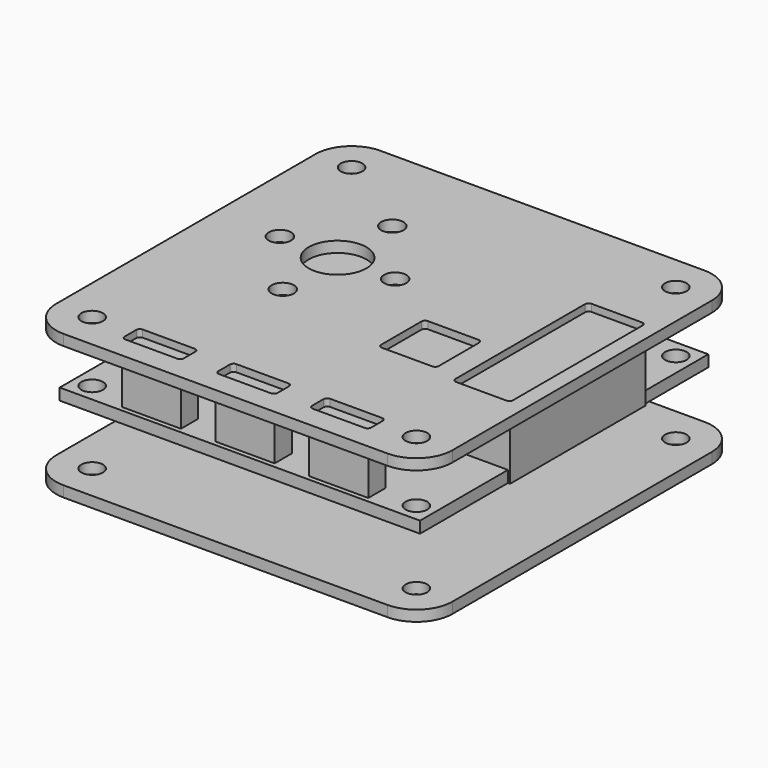
from build123d import *

# Parameters (mm, degrees)
F0_R     = 1.5
F0_W     = 8.2
F0_H     = 3
F0_W_2   = 8
F0_H_2   = 8
F0_H_3   = 10
F0_H_4   = 7
F0_W_3   = 6.5
F0_W_4   = 7.7
F0_H_5   = 23.5
F1_DEPTH = 1.6
F0_W_5   = 0.3
F2_DEPTH = 9
F4_START = 8.5
F3_R     = 1.5
F3_R_2   = 1.55
F3_R_3   = 4
F4_DEPTH = 1.5
F5_START = -8.5
F5_DEPTH = 1.5


with BuildPart() as f1:
    # F0 (on Top) → F1 (new body)
    with BuildSketch(Plane.XY):
        Polygon((-17.7, 25), (-25, 25), (-25, -25), (25, -25), (25, -9.75), (17.3, -9.75), (17.3, 13.75), (25, 13.75), (25, 25), (19.55, 25), (19.55, 18), (13.05, 18), (13.05, 25), (12.35, 25), (12.35, 18), (4.35, 18), (4.35, 25), (-9.7, 25), (-9.7, 15), (-17.7, 15), align=None)
        with Locations((-22.5, -22.5)):
            Circle(F0_R, mode=Mode.SUBTRACT)
        with Locations((-12.8, -22.85)):
            Rectangle(F0_W, F0_H, mode=Mode.SUBTRACT)
        with Locations((0.2, -22.85)):
            Rectangle(F0_W, F0_H, mode=Mode.SUBTRACT)
        with Locations((13.2, -22.85)):
            Rectangle(F0_W, F0_H, mode=Mode.SUBTRACT)
        with Locations((22.5, -22.5)):
            Circle(F0_R, mode=Mode.SUBTRACT)
        with Locations((10, -4.5)):
            Rectangle(F0_W_2, F0_H_2, mode=Mode.SUBTRACT)
        with Locations((-22.5, 22.5)):
            Circle(F0_R, mode=Mode.SUBTRACT)
        with Locations((22.5, 22.5)):
            Circle(F0_R, mode=Mode.SUBTRACT)
        with Locations((-13.7, 20)):
            Rectangle(F0_W_2, F0_H_3)
        with Locations((8.35, 21.5)):
            Rectangle(F0_W_2, F0_H_4)
        with Locations((16.3, 21.5)):
            Rectangle(F0_W_3, F0_H_4)
        with Locations((21.15, 2)):
            Rectangle(F0_W_4, F0_H_5)
        with Locations((10, -4.5)):
            Rectangle(F0_W_2, F0_H_2)
        with Locations((0.2, -22.85)):
            Rectangle(F0_W, F0_H)
        with Locations((-12.8, -22.85)):
            Rectangle(F0_W, F0_H)
        with Locations((13.2, -22.85)):
            Rectangle(F0_W, F0_H)
    extrude(amount=F1_DEPTH)

    # F0 (on Top) → F2 (join)
    with BuildSketch(Plane.XY):
        with Locations((21.15, 2)):
            Rectangle(F0_W_4, F0_H_5)
        with Locations((10, -4.5)):
            Rectangle(F0_W_2, F0_H_2)
        with Locations((13.2, -22.85)):
            Rectangle(F0_W, F0_H)
        with Locations((0.2, -22.85)):
            Rectangle(F0_W, F0_H)
        with Locations((-12.8, -22.85)):
            Rectangle(F0_W, F0_H)
        with Locations((25.15, 2)):
            Rectangle(F0_W_5, F0_H_5)
    extrude(amount=F2_DEPTH)


with BuildPart() as f4:
    # F3 (on Top) → F4 (new body)
    with BuildSketch(Plane.XY.offset(F4_START)):
        with BuildLine():
            Line((22.5, 27.5), (-22.5, 27.5))
            ThreePointArc((-22.5, 27.5), (-26.0355339059, 26.0355339059), (-27.5, 22.5))
            Line((-27.5, 22.5), (-27.5, -22.5))
            ThreePointArc((-27.5, -22.5), (-26.0355339059, -26.0355339059), (-22.5, -27.5))
            Line((-22.5, -27.5), (22.5, -27.5))
            ThreePointArc((22.5, -27.5), (26.0355339059, -26.0355339059), (27.5, -22.5))
            Line((27.5, -22.5), (27.5, 22.5))
            ThreePointArc((27.5, 22.5), (26.0355339059, 26.0355339059), (22.5, 27.5))
        make_face()
        with Locations((-22.5, -22.5)):
            Circle(F3_R, mode=Mode.SUBTRACT)
        with BuildLine():
            Line((-16.9, -23.85), (-16.9, -21.85))
            ThreePointArc((-16.9, -21.85), (-16.7535533906, -21.4964466094), (-16.4, -21.35))
            Line((-16.4, -21.35), (-9.2, -21.35))
            ThreePointArc((-9.2, -21.35), (-8.8464466094, -21.4964466094), (-8.7, -21.85))
            Line((-8.7, -21.85), (-8.7, -23.85))
            ThreePointArc((-8.7, -23.85), (-8.8464466094, -24.2035533906), (-9.2, -24.35))
            Line((-9.2, -24.35), (-16.4, -24.35))
            ThreePointArc((-16.4, -24.35), (-16.7535533906, -24.2035533906), (-16.9, -23.85))
        make_face(mode=Mode.SUBTRACT)
        with Locations((-10.4454365488, -4.5)):
            Circle(F3_R_2, mode=Mode.SUBTRACT)
        with BuildLine():
            Line((4.3, -21.85), (4.3, -23.85))
            ThreePointArc((4.3, -23.85), (4.1535533906, -24.2035533906), (3.8, -24.35))
            Line((3.8, -24.35), (-3.4, -24.35))
            ThreePointArc((-3.4, -24.35), (-3.7535533906, -24.2035533906), (-3.9, -23.85))
            Line((-3.9, -23.85), (-3.9, -21.85))
            ThreePointArc((-3.9, -21.85), (-3.7535533906, -21.4964466094), (-3.4, -21.35))
            Line((-3.4, -21.35), (3.8, -21.35))
            ThreePointArc((3.8, -21.35), (4.1535533906, -21.4964466094), (4.3, -21.85))
        make_face(mode=Mode.SUBTRACT)
        with BuildLine():
            Line((17.3, -21.85), (17.3, -23.85))
            ThreePointArc((17.3, -23.85), (17.1535533906, -24.2035533906), (16.8, -24.35))
            Line((16.8, -24.35), (9.6, -24.35))
            ThreePointArc((9.6, -24.35), (9.2464466094, -24.2035533906), (9.1, -23.85))
            Line((9.1, -23.85), (9.1, -21.85))
            ThreePointArc((9.1, -21.85), (9.2464466094, -21.4964466094), (9.6, -21.35))
            Line((9.6, -21.35), (16.8, -21.35))
            ThreePointArc((16.8, -21.35), (17.1535533906, -21.4964466094), (17.3, -21.85))
        make_face(mode=Mode.SUBTRACT)
        with Locations((22.5, -22.5)):
            Circle(F3_R, mode=Mode.SUBTRACT)
        with BuildLine():
            Line((6, -8), (6, -1))
            ThreePointArc((6, -1), (6.1464466094, -0.6464466094), (6.5, -0.5))
            Line((6.5, -0.5), (13.5, -0.5))
            ThreePointArc((13.5, -0.5), (13.8535533906, -0.6464466094), (14, -1))
            Line((14, -1), (14, -8))
            ThreePointArc((14, -8), (13.8535533906, -8.3535533906), (13.5, -8.5))
            Line((13.5, -8.5), (6.5, -8.5))
            ThreePointArc((6.5, -8.5), (6.1464466094, -8.3535533906), (6, -8))
        make_face(mode=Mode.SUBTRACT)
        with Locations((-18.4454365488, 5)):
            Circle(F3_R_2, mode=Mode.SUBTRACT)
        with Locations((-10.4454365488, 5)):
            Circle(F3_R_3, mode=Mode.SUBTRACT)
        with Locations((-2.4454365488, 5)):
            Circle(F3_R_2, mode=Mode.SUBTRACT)
        with Locations((-22.5, 22.5)):
            Circle(F3_R, mode=Mode.SUBTRACT)
        with Locations((-10.4454365488, 14.5)):
            Circle(F3_R_2, mode=Mode.SUBTRACT)
        with BuildLine():
            Line((24.8, -9.75), (17.8, -9.75))
            ThreePointArc((17.8, -9.75), (17.4464466094, -9.6035533906), (17.3, -9.25))
            Line((17.3, -9.25), (17.3, 13.25))
            ThreePointArc((17.3, 13.25), (17.4464466094, 13.6035533906), (17.8, 13.75))
            Line((17.8, 13.75), (24.8, 13.75))
            ThreePointArc((24.8, 13.75), (25.1535533906, 13.6035533906), (25.3, 13.25))
            Line((25.3, 13.25), (25.3, -9.25))
            ThreePointArc((25.3, -9.25), (25.1535533906, -9.6035533906), (24.8, -9.75))
        make_face(mode=Mode.SUBTRACT)
        with Locations((22.5, 22.5)):
            Circle(F3_R, mode=Mode.SUBTRACT)
    extrude(amount=F4_DEPTH)


with BuildPart() as f5:
    # F3 (on Top) → F5 (new body)
    with BuildSketch(Plane.XY.offset(F5_START)):
        with BuildLine():
            Line((22.5, 27.5), (-22.5, 27.5))
            ThreePointArc((-22.5, 27.5), (-26.0355339059, 26.0355339059), (-27.5, 22.5))
            Line((-27.5, 22.5), (-27.5, -22.5))
            ThreePointArc((-27.5, -22.5), (-26.0355339059, -26.0355339059), (-22.5, -27.5))
            Line((-22.5, -27.5), (22.5, -27.5))
            ThreePointArc((22.5, -27.5), (26.0355339059, -26.0355339059), (27.5, -22.5))
            Line((27.5, -22.5), (27.5, 22.5))
            ThreePointArc((27.5, 22.5), (26.0355339059, 26.0355339059), (22.5, 27.5))
        make_face()
        with Locations((-22.5, -22.5)):
            Circle(F3_R, mode=Mode.SUBTRACT)
        with BuildLine():
            Line((-16.9, -23.85), (-16.9, -21.85))
            ThreePointArc((-16.9, -21.85), (-16.7535533906, -21.4964466094), (-16.4, -21.35))
            Line((-16.4, -21.35), (-9.2, -21.35))
            ThreePointArc((-9.2, -21.35), (-8.8464466094, -21.4964466094), (-8.7, -21.85))
            Line((-8.7, -21.85), (-8.7, -23.85))
            ThreePointArc((-8.7, -23.85), (-8.8464466094, -24.2035533906), (-9.2, -24.35))
            Line((-9.2, -24.35), (-16.4, -24.35))
            ThreePointArc((-16.4, -24.35), (-16.7535533906, -24.2035533906), (-16.9, -23.85))
        make_face(mode=Mode.SUBTRACT)
        with Locations((-10.4454365488, -4.5)):
            Circle(F3_R_2, mode=Mode.SUBTRACT)
        with BuildLine():
            Line((4.3, -21.85), (4.3, -23.85))
            ThreePointArc((4.3, -23.85), (4.1535533906, -24.2035533906), (3.8, -24.35))
            Line((3.8, -24.35), (-3.4, -24.35))
            ThreePointArc((-3.4, -24.35), (-3.7535533906, -24.2035533906), (-3.9, -23.85))
            Line((-3.9, -23.85), (-3.9, -21.85))
            ThreePointArc((-3.9, -21.85), (-3.7535533906, -21.4964466094), (-3.4, -21.35))
            Line((-3.4, -21.35), (3.8, -21.35))
            ThreePointArc((3.8, -21.35), (4.1535533906, -21.4964466094), (4.3, -21.85))
        make_face(mode=Mode.SUBTRACT)
        with BuildLine():
            Line((17.3, -21.85), (17.3, -23.85))
            ThreePointArc((17.3, -23.85), (17.1535533906, -24.2035533906), (16.8, -24.35))
            Line((16.8, -24.35), (9.6, -24.35))
            ThreePointArc((9.6, -24.35), (9.2464466094, -24.2035533906), (9.1, -23.85))
            Line((9.1, -23.85), (9.1, -21.85))
            ThreePointArc((9.1, -21.85), (9.2464466094, -21.4964466094), (9.6, -21.35))
            Line((9.6, -21.35), (16.8, -21.35))
            ThreePointArc((16.8, -21.35), (17.1535533906, -21.4964466094), (17.3, -21.85))
        make_face(mode=Mode.SUBTRACT)
        with Locations((22.5, -22.5)):
            Circle(F3_R, mode=Mode.SUBTRACT)
        with BuildLine():
            Line((6, -8), (6, -1))
            ThreePointArc((6, -1), (6.1464466094, -0.6464466094), (6.5, -0.5))
            Line((6.5, -0.5), (13.5, -0.5))
            ThreePointArc((13.5, -0.5), (13.8535533906, -0.6464466094), (14, -1))
            Line((14, -1), (14, -8))
            ThreePointArc((14, -8), (13.8535533906, -8.3535533906), (13.5, -8.5))
            Line((13.5, -8.5), (6.5, -8.5))
            ThreePointArc((6.5, -8.5), (6.1464466094, -8.3535533906), (6, -8))
        make_face(mode=Mode.SUBTRACT)
        with Locations((-18.4454365488, 5)):
            Circle(F3_R_2, mode=Mode.SUBTRACT)
        with Locations((-10.4454365488, 5)):
            Circle(F3_R_3, mode=Mode.SUBTRACT)
        with Locations((-2.4454365488, 5)):
            Circle(F3_R_2, mode=Mode.SUBTRACT)
        with Locations((-22.5, 22.5)):
            Circle(F3_R, mode=Mode.SUBTRACT)
        with Locations((-10.4454365488, 14.5)):
            Circle(F3_R_2, mode=Mode.SUBTRACT)
        with BuildLine():
            Line((24.8, -9.75), (17.8, -9.75))
            ThreePointArc((17.8, -9.75), (17.4464466094, -9.6035533906), (17.3, -9.25))
            Line((17.3, -9.25), (17.3, 13.25))
            ThreePointArc((17.3, 13.25), (17.4464466094, 13.6035533906), (17.8, 13.75))
            Line((17.8, 13.75), (24.8, 13.75))
            ThreePointArc((24.8, 13.75), (25.1535533906, 13.6035533906), (25.3, 13.25))
            Line((25.3, 13.25), (25.3, -9.25))
            ThreePointArc((25.3, -9.25), (25.1535533906, -9.6035533906), (24.8, -9.75))
        make_face(mode=Mode.SUBTRACT)
        with Locations((22.5, 22.5)):
            Circle(F3_R, mode=Mode.SUBTRACT)
        with BuildLine():
            ThreePointArc((17.3, -9.25), (17.4464466094, -9.6035533906), (17.8, -9.75))
            Line((17.8, -9.75), (24.8, -9.75))
            ThreePointArc((24.8, -9.75), (25.1535533906, -9.6035533906), (25.3, -9.25))
            Line((25.3, -9.25), (25.3, 13.25))
            ThreePointArc((25.3, 13.25), (25.1535533906, 13.6035533906), (24.8, 13.75))
            Line((24.8, 13.75), (17.8, 13.75))
            ThreePointArc((17.8, 13.75), (17.4464466094, 13.6035533906), (17.3, 13.25))
            Line((17.3, 13.25), (17.3, -9.25))
        make_face()
        with BuildLine():
            ThreePointArc((6.5, -0.5), (6.1464466094, -0.6464466094), (6, -1))
            Line((6, -1), (6, -8))
            ThreePointArc((6, -8), (6.1464466094, -8.3535533906), (6.5, -8.5))
            Line((6.5, -8.5), (13.5, -8.5))
            ThreePointArc((13.5, -8.5), (13.8535533906, -8.3535533906), (14, -8))
            Line((14, -8), (14, -1))
            ThreePointArc((14, -1), (13.8535533906, -0.6464466094), (13.5, -0.5))
            Line((13.5, -0.5), (6.5, -0.5))
        make_face()
        with BuildLine():
            ThreePointArc((16.8, -24.35), (17.1535533906, -24.2035533906), (17.3, -23.85))
            Line((17.3, -23.85), (17.3, -21.85))
            ThreePointArc((17.3, -21.85), (17.1535533906, -21.4964466094), (16.8, -21.35))
            Line((16.8, -21.35), (9.6, -21.35))
            ThreePointArc((9.6, -21.35), (9.2464466094, -21.4964466094), (9.1, -21.85))
            Line((9.1, -21.85), (9.1, -23.85))
            ThreePointArc((9.1, -23.85), (9.2464466094, -24.2035533906), (9.6, -24.35))
            Line((9.6, -24.35), (16.8, -24.35))
        make_face()
        with BuildLine():
            ThreePointArc((3.8, -24.35), (4.1535533906, -24.2035533906), (4.3, -23.85))
            Line((4.3, -23.85), (4.3, -21.85))
            ThreePointArc((4.3, -21.85), (4.1535533906, -21.4964466094), (3.8, -21.35))
            Line((3.8, -21.35), (-3.4, -21.35))
            ThreePointArc((-3.4, -21.35), (-3.7535533906, -21.4964466094), (-3.9, -21.85))
            Line((-3.9, -21.85), (-3.9, -23.85))
            ThreePointArc((-3.9, -23.85), (-3.7535533906, -24.2035533906), (-3.4, -24.35))
            Line((-3.4, -24.35), (3.8, -24.35))
        make_face()
        with BuildLine():
            ThreePointArc((-16.4, -21.35), (-16.7535533906, -21.4964466094), (-16.9, -21.85))
            Line((-16.9, -21.85), (-16.9, -23.85))
            ThreePointArc((-16.9, -23.85), (-16.7535533906, -24.2035533906), (-16.4, -24.35))
            Line((-16.4, -24.35), (-9.2, -24.35))
            ThreePointArc((-9.2, -24.35), (-8.8464466094, -24.2035533906), (-8.7, -23.85))
            Line((-8.7, -23.85), (-8.7, -21.85))
            ThreePointArc((-8.7, -21.85), (-8.8464466094, -21.4964466094), (-9.2, -21.35))
            Line((-9.2, -21.35), (-16.4, -21.35))
        make_face()
    extrude(amount=-F5_DEPTH)


solid = Compound([f1.part, f4.part, f5.part])
